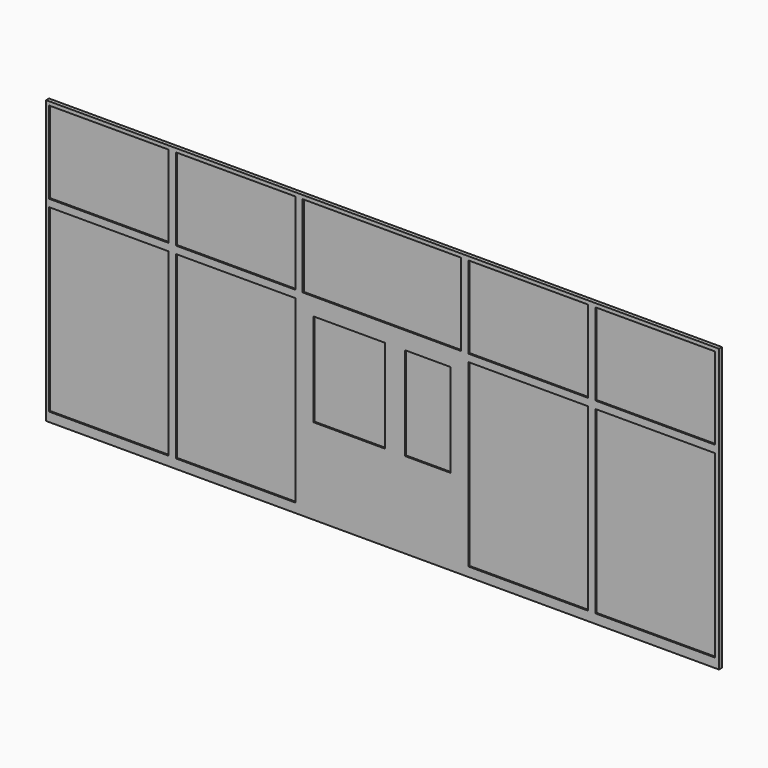
from build123d import *

# Parameters (mm, degrees)
F0_W     = 1295
F0_H     = 890
F0_H_2   = 1950
F0_W_2   = 1715
F0_W_3   = 775
F0_H_3   = 1010
F0_W_4   = 490
F1_DEPTH = 25
F2_DEPTH = 40


with BuildPart() as f1:
    # F0 (on Front) → F1 (new body)
    with BuildSketch(Plane.XZ):
        with Locations((677.5, 2575)):
            Rectangle(F0_W, F0_H)
        with Locations((677.5, 1075)):
            Rectangle(F0_W, F0_H_2)
        with Locations((2052.5, 2575)):
            Rectangle(F0_W, F0_H)
        with Locations((2052.5, 1075)):
            Rectangle(F0_W, F0_H_2)
        with Locations((3637.5, 2575)):
            Rectangle(F0_W_2, F0_H)
        with Locations((3282.5, 1435)):
            Rectangle(F0_W_3, F0_H_3)
        with Locations((4135, 1435)):
            Rectangle(F0_W_4, F0_H_3)
        with Locations((5222.5, 2575)):
            Rectangle(F0_W, F0_H)
        with Locations((5222.5, 1075)):
            Rectangle(F0_W, F0_H_2)
        with Locations((6597.5, 2575)):
            Rectangle(F0_W, F0_H)
        with Locations((6597.5, 1075)):
            Rectangle(F0_W, F0_H_2)
    extrude(amount=F1_DEPTH)


with BuildPart() as f2:
    # F0 (on Front) → F2 (new body)
    with BuildSketch(Plane.XZ):
        Polygon((0, 100), (0, 0), (7290, 0), (7290, 100), (7245, 100), (5950, 100), (5870, 100), (4575, 100), (4380, 100), (3890, 100), (3670, 100), (2895, 100), (2700, 100), (1405, 100), (1325, 100), (30, 100), align=None)
        Polygon((0, 2050), (0, 100), (30, 100), (30, 2050), (1325, 2050), (1325, 100), (1405, 100), (1405, 2050), (2700, 2050), (2700, 100), (2895, 100), (3670, 100), (3890, 100), (4380, 100), (4575, 100), (4575, 2050), (5870, 2050), (5870, 100), (5950, 100), (5950, 2050), (7245, 2050), (7245, 100), (7290, 100), (7290, 3060), (0, 3060), (0, 2130), align=None)
        with Locations((3282.5, 1435)):
            Rectangle(F0_W_3, F0_H_3, mode=Mode.SUBTRACT)
        with Locations((4135, 1435)):
            Rectangle(F0_W_4, F0_H_3, mode=Mode.SUBTRACT)
        with Locations((677.5, 2575)):
            Rectangle(F0_W, F0_H, mode=Mode.SUBTRACT)
        with Locations((2052.5, 2575)):
            Rectangle(F0_W, F0_H, mode=Mode.SUBTRACT)
        with Locations((3637.5, 2575)):
            Rectangle(F0_W_2, F0_H, mode=Mode.SUBTRACT)
        with Locations((5222.5, 2575)):
            Rectangle(F0_W, F0_H, mode=Mode.SUBTRACT)
        with Locations((6597.5, 2575)):
            Rectangle(F0_W, F0_H, mode=Mode.SUBTRACT)
    extrude(amount=F2_DEPTH)


solid = Compound([f1.part, f2.part])
